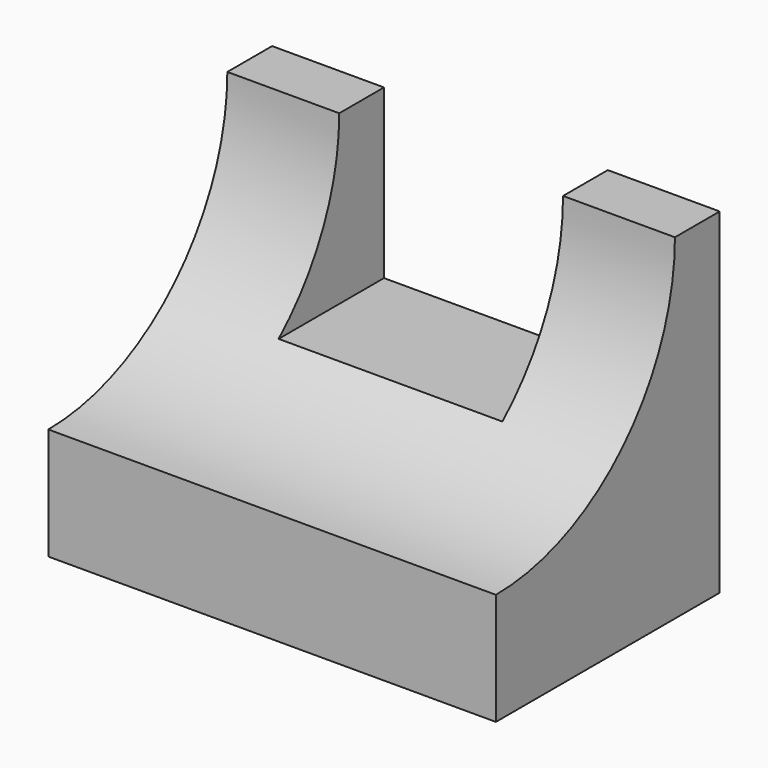
from build123d import *

# Parameters (mm, degrees)
F1_DEPTH = 50.8
F2_W     = 25.4
F2_H     = 20.693142
F3_DEPTH = 19.05


with BuildPart() as f1:
    # F0 (on Right) → F1 (new body)
    with BuildSketch(Plane.YZ):
        with BuildLine():
            Line((0, 12.7), (0, 0))
            Line((0, 0), (31.75, 0))
            Line((31.75, 0), (31.75, 38.1))
            Line((31.75, 38.1), (25.4, 38.1))
            ThreePointArc((25.4, 38.1), (17.960512, 20.139488), (0, 12.7))
        make_face()
    extrude(amount=-F1_DEPTH)

    # F2 (on face) → F3 (cut)
    with BuildSketch(Plane.XY.offset(38.1)):
        with Locations((-25.4, 21.403429)):
            Rectangle(F2_W, F2_H)
        with Locations((-25.4, 21.403429)):
            Rectangle(F2_W, F2_H)
    extrude(amount=-F3_DEPTH, mode=Mode.SUBTRACT)


solid = f1.part
